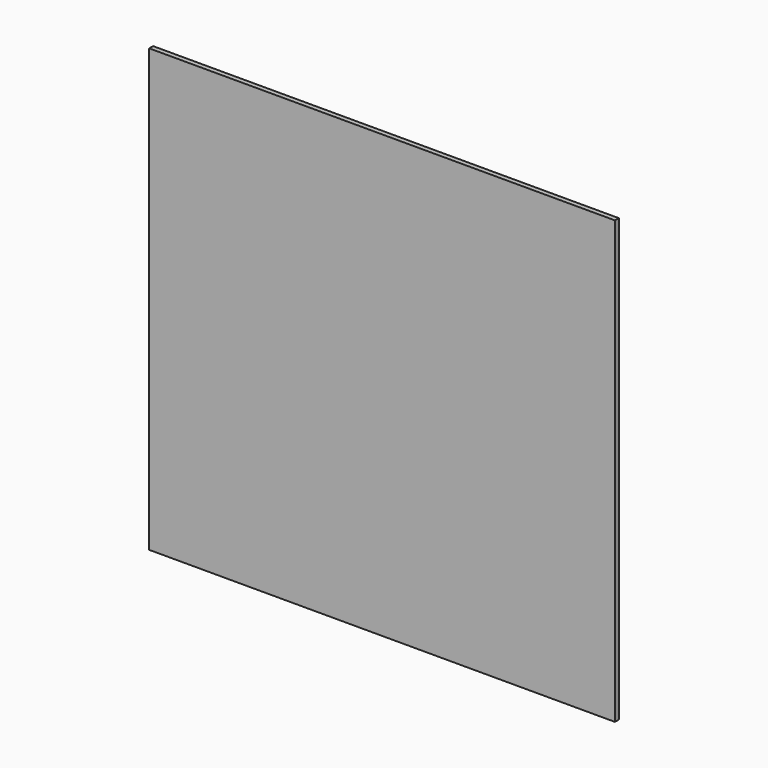
from build123d import *

# Parameters (mm, degrees)
F0_W     = 609.6
F0_H     = 577.85
F1_DEPTH = 6.35


with BuildPart() as f1:
    # F0 (on Front) → F1 (new body)
    with BuildSketch(Plane.XZ):
        Rectangle(F0_W, F0_H)
        Rectangle(F0_W, F0_H)
    extrude(amount=F1_DEPTH)


solid = f1.part
